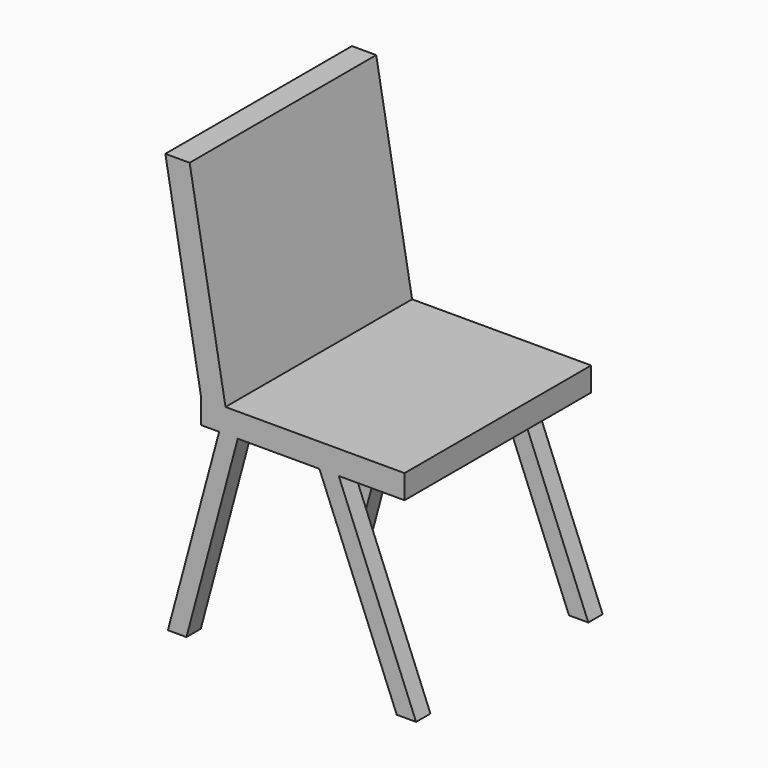
from build123d import *

# Parameters (mm, degrees)
F1_DEPTH = 495.3
F2_W     = 419.1
F2_H     = 406.4
F3_DEPTH = 532.497258


with BuildPart() as f1:
    # F0 (on Front) → F1 (new body)
    with BuildSketch(Plane.XZ):
        Polygon((-404.711319, 457.2), (-480.911319, 889), (-532.496258, 889), (-456.296258, 457.2), (-456.296258, 406.4), (-418.196258, 406.4), (-378.752236, 406.4), (-205.288432, 406.4), (-164.196258, 406.4), (-24.496258, 406.4), (-24.496258, 457.2), align=None)
        Polygon((0, 0), (-164.196258, 406.4), (-205.288432, 406.4), (-41.092174, 0), align=None)
        Polygon((-378.752236, 406.4), (-418.196258, 406.4), (-527.09081, 0), (-487.646788, 0), align=None)
    extrude(amount=F1_DEPTH)

    # F2 (on Right) → F3 (cut, through all)
    with BuildSketch(Plane.YZ):
        with Locations((-247.65, 203.2)):
            Rectangle(F2_W, F2_H)
    extrude(amount=-F3_DEPTH, mode=Mode.SUBTRACT)


solid = f1.part
